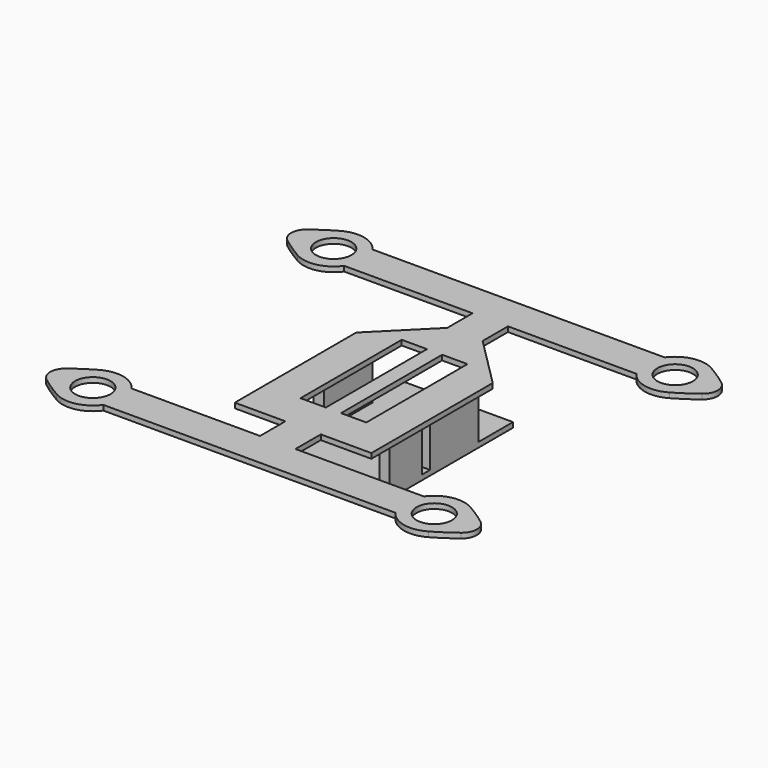
from build123d import *

# Parameters (mm, degrees)
F0_R     = 3.5
F0_W     = 5
F0_H     = 25
F1_DEPTH = 1
F2_W     = 2
F2_H     = 8
F2_W_2   = 1.9999998777
F2_H_2   = 12
F3_DEPTH = 9.5
F4_W     = 23
F4_H     = 35
F5_DEPTH = 1


with BuildPart() as f1:
    # F0 (on Top) → F1 (new body)
    with BuildSketch(Plane.XY):
        with BuildLine():
            Line((-3.5, 20), (-13.5, 10))
            Line((-13.5, 10), (-13.5, -20))
            Line((-13.5, -20), (-3.5, -20))
            Line((-3.5, -20), (-3.5, -26.2619838908))
            Line((-3.5, -26.2619838908), (-28.879, -26.2619838908))
            ThreePointArc((-28.879, -26.2619838908), (-32.4888159516, -23.8965459278), (-36.7523971724, -24.5658314681))
            ThreePointArc((-36.7523971724, -24.5658314681), (-38.907954465, -25.9032249779), (-40.974404202, -27.3745625074))
            ThreePointArc((-40.974404202, -27.3745625074), (-42.1577536748, -29.7619838908), (-40.974404202, -32.1494052742))
            ThreePointArc((-40.974404202, -32.1494052742), (-38.907954465, -33.6207428037), (-36.7523971724, -34.9581363135))
            ThreePointArc((-36.7523971724, -34.9581363135), (-32.4888159516, -35.6274218538), (-28.879, -33.2619838908))
            Line((-28.879, -33.2619838908), (28.879, -33.2619838908))
            ThreePointArc((28.879, -33.2619838908), (32.4888159516, -35.6274218538), (36.7523971724, -34.9581363135))
            ThreePointArc((36.7523971724, -34.9581363135), (38.907954465, -33.6207428037), (40.974404202, -32.1494052742))
            ThreePointArc((40.974404202, -32.1494052742), (42.1577536748, -29.7619838908), (40.974404202, -27.3745625074))
            ThreePointArc((40.974404202, -27.3745625074), (38.907954465, -25.9032249779), (36.7523971724, -24.5658314681))
            ThreePointArc((36.7523971724, -24.5658314681), (32.4888159516, -23.8965459278), (28.879, -26.2619838908))
            Line((28.879, -26.2619838908), (3.5, -26.2619838908))
            Line((3.5, -26.2619838908), (3.5, -20))
            Line((3.5, -20), (13.5, -20))
            Line((13.5, -20), (13.5, 10))
            Line((13.5, 10), (3.5, 20))
            Line((3.5, 20), (3.5, 26.2619838908))
            Line((3.5, 26.2619838908), (28.879, 26.2619838908))
            ThreePointArc((28.879, 26.2619838908), (32.4888159516, 23.8965459278), (36.7523971724, 24.5658314681))
            ThreePointArc((36.7523971724, 24.5658314681), (38.907954465, 25.9032249779), (40.974404202, 27.3745625074))
            ThreePointArc((40.974404202, 27.3745625074), (42.1577536748, 29.7619838908), (40.974404202, 32.1494052742))
            ThreePointArc((40.974404202, 32.1494052742), (38.907954465, 33.6207428037), (36.7523971724, 34.9581363135))
            ThreePointArc((36.7523971724, 34.9581363135), (32.4888159516, 35.6274218538), (28.879, 33.2619838908))
            Line((28.879, 33.2619838908), (-28.879, 33.2619838908))
            ThreePointArc((-28.879, 33.2619838908), (-32.4888159516, 35.6274218538), (-36.7523971724, 34.9581363135))
            ThreePointArc((-36.7523971724, 34.9581363135), (-38.907954465, 33.6207428037), (-40.974404202, 32.1494052742))
            ThreePointArc((-40.974404202, 32.1494052742), (-42.1577536748, 29.7619838908), (-40.974404202, 27.3745625074))
            ThreePointArc((-40.974404202, 27.3745625074), (-38.907954465, 25.9032249779), (-36.7523971724, 24.5658314681))
            ThreePointArc((-36.7523971724, 24.5658314681), (-32.4888159516, 23.8965459278), (-28.879, 26.2619838908))
            Line((-28.879, 26.2619838908), (-3.5, 26.2619838908))
            Line((-3.5, 26.2619838908), (-3.5, 20))
        make_face()
        with Locations((-33.7523971724, -29.7619838908)):
            Circle(F0_R, mode=Mode.SUBTRACT)
        with Locations((33.7523971724, -29.7619838908)):
            Circle(F0_R, mode=Mode.SUBTRACT)
        with Locations((-4, 0)):
            Rectangle(F0_W, F0_H, mode=Mode.SUBTRACT)
        with Locations((-33.7523971724, 29.7619838908)):
            Circle(F0_R, mode=Mode.SUBTRACT)
        with Locations((4, 0)):
            Rectangle(F0_W, F0_H, mode=Mode.SUBTRACT)
        with Locations((33.7523971724, 29.7619838908)):
            Circle(F0_R, mode=Mode.SUBTRACT)
    extrude(amount=F1_DEPTH)

    # F2 (on Top) → F3 (join)
    with BuildSketch(Plane.XY):
        with Locations((10.5, -9)):
            Rectangle(F2_W, F2_H)
        with Locations((10.5000000611, 3)):
            Rectangle(F2_W_2, F2_H_2)
        with Locations((-10.5000000611, 3)):
            Rectangle(F2_W_2, F2_H_2)
    extrude(amount=-F3_DEPTH)

    # F4 (on face) → F5 (join)
    with BuildSketch(Plane(origin=(0, 0, -9.5), x_dir=(1, 0, 0), z_dir=(0, 0, -1))):
        Rectangle(F4_W, F4_H)
    extrude(amount=F5_DEPTH)


solid = f1.part
